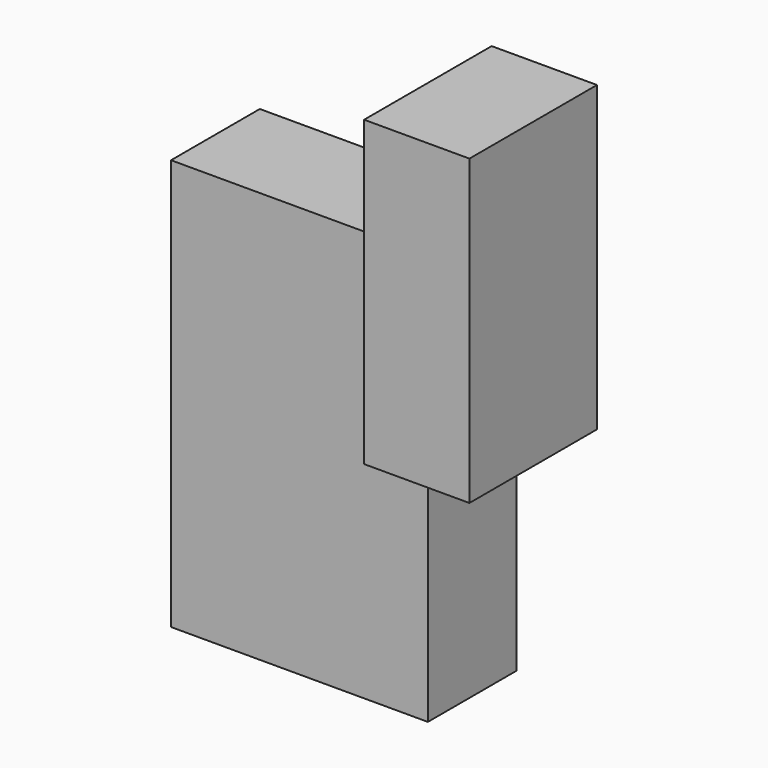
from build123d import *

# Parameters (mm, degrees)
F0_W     = 127
F0_H     = 203.2
F1_DEPTH = 54.864
F2_W     = 39.4155723677
F2_H     = 74.955454731
F3_DEPTH = 52.07


with BuildPart() as f1:
    # F0 (on Front) → F1 (new body)
    with BuildSketch(Plane.XZ):
        Rectangle(F0_W, F0_H)
    extrude(amount=F1_DEPTH)


with BuildPart() as f3:
    # F2 (on face) → F3 (new body)
    with BuildSketch(Plane.YZ.offset(63.5)):
        Polygon((-15.4484276323, 176.555454731), (-94.2795723677, 176.555454731), (-94.2795723677, 26.644545269), (-54.864, 26.644545269), (-54.864, 101.6), (-15.4484276323, 101.6), align=None)
        with Locations((-35.1562138162, 64.1222726345)):
            Rectangle(F2_W, F2_H)
    extrude(amount=F3_DEPTH)


solid = Compound([f1.part, f3.part])
